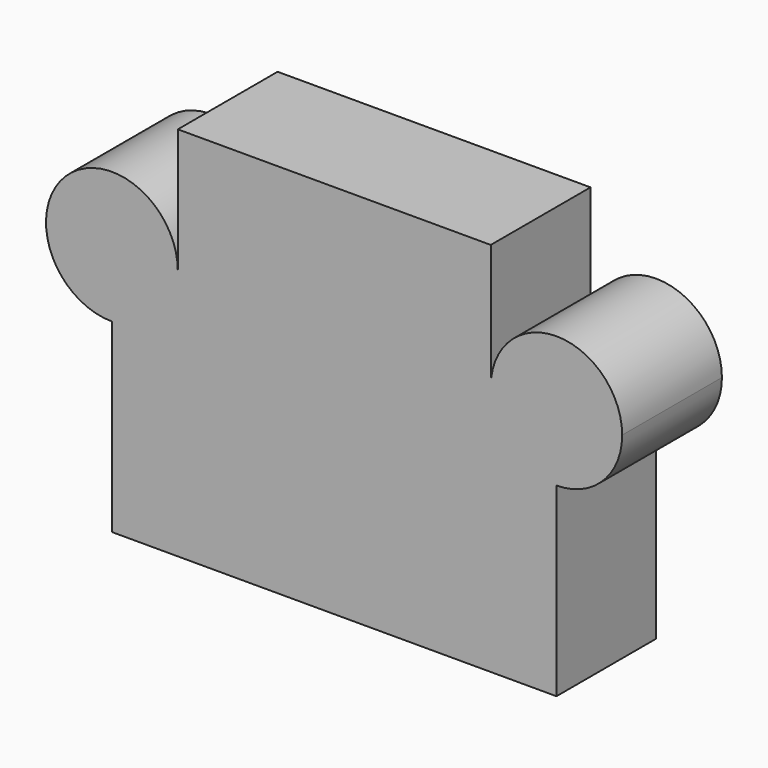
from build123d import *

# Parameters (mm, degrees)
F1_DEPTH = 25.4
F2_DEPTH = 25.4
F3_R     = 9.9934379812
F4_DEPTH = 25.4


with BuildPart() as f1:
    # F0 (on Front) → F1 (new body)
    with BuildSketch(Plane.XZ):
        with BuildLine():
            Line((-122.5946694613, 43.2584390598), (-122.5946694613, 56.6831417382))
            Line((-122.5946694613, 56.6831417382), (-109.1699667829, 56.6831417382))
            ThreePointArc((-109.1699667829, 56.6831417382), (-132.0873677605, 66.1758400375), (-122.5946694613, 43.2584390598))
        make_face()
        with BuildLine():
            Line((-109.1699667829, 56.6831417382), (-122.5946694613, 56.6831417382))
            Line((-122.5946694613, 56.6831417382), (-122.5946694613, 43.2584390598))
            ThreePointArc((-122.5946694613, 43.2584390598), (-113.101971162, 47.1904434389), (-109.1699667829, 56.6831417382))
        make_face()
        with BuildLine():
            Line((-45.4307209175, 56.6831417382), (-109.1699667829, 56.6831417382))
            ThreePointArc((-109.1699667829, 56.6831417382), (-113.101971162, 47.1904434389), (-122.5946694613, 43.2584390598))
            Line((-122.5946694613, 43.2584390598), (-122.5946694613, 5.5007226765))
            Line((-122.5946694613, 5.5007226765), (-32.0475660264, 5.5007226765))
            Line((-32.0475660264, 5.5007226765), (-32.0475660264, 43.2999868471))
            ThreePointArc((-32.0475660264, 43.2999868471), (-41.5108856036, 47.2198221611), (-45.4307209175, 56.6831417382))
        make_face()
        with BuildLine():
            ThreePointArc((-18.6644111354, 56.6831417382), (-32.0475660264, 70.0662966292), (-45.4307209175, 56.6831417382))
            Line((-45.4307209175, 56.6831417382), (-32.0475660264, 56.6831417382))
            Line((-32.0475660264, 56.6831417382), (-32.0475660264, 43.2999868471))
            ThreePointArc((-32.0475660264, 43.2999868471), (-22.5842464493, 47.2198221611), (-18.6644111354, 56.6831417382))
        make_face()
        with BuildLine():
            Line((-32.0475660264, 56.6831417382), (-45.4307209175, 56.6831417382))
            ThreePointArc((-45.4307209175, 56.6831417382), (-41.5108856036, 47.2198221611), (-32.0475660264, 43.2999868471))
            Line((-32.0475660264, 43.2999868471), (-32.0475660264, 56.6831417382))
        make_face()
    extrude(amount=F1_DEPTH)

    # F2 (add): a face of the model
    f2_faces = [f1.faces().sort_by_distance(p)[0] for p in [
        (-77.3003438502, -12.7, 56.6831417382),
    ]]
    extrude(f2_faces, amount=F2_DEPTH)

    # F3 (on face) → F4 (join)
    with BuildSketch(Plane.XZ.offset(25.4)):
        with Locations((-32.0475660264, 56.6831417382)):
            Circle(F3_R)
    extrude(amount=-F4_DEPTH)


solid = f1.part
